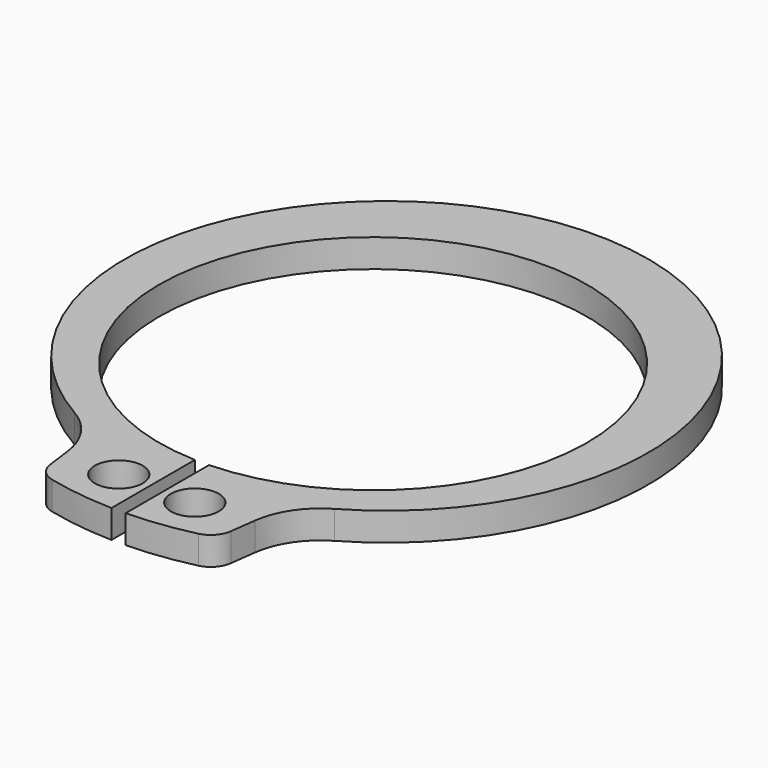
from build123d import *

# Parameters (mm, degrees)
F0_R     = 0.85
F1_DEPTH = 1


with BuildPart() as f1:
    # F0 (on Top) → F1 (new body)
    with BuildSketch(Plane.XY):
        with BuildLine():
            ThreePointArc((-0.25, -7.595887), (0, 7.6), (0.25, -7.595887))
            Line((0.25, -7.595887), (0.25, -11.297234))
            ThreePointArc((0.25, -11.297234), (1.431103, -11.209012), (2.596485, -10.997648))
            ThreePointArc((2.596485, -10.997648), (3.006169, -10.755478), (3.205819, -10.323475))
            Line((3.205819, -10.323475), (3.328522, -9.391454))
            ThreePointArc((3.328522, -9.391454), (3.747523, -8.281762), (4.615831, -7.473667))
            ThreePointArc((4.615831, -7.473667), (0, 9.9), (-4.615831, -7.473667))
            ThreePointArc((-4.615831, -7.473667), (-3.747523, -8.281762), (-3.328522, -9.391454))
            Line((-3.328522, -9.391454), (-3.205819, -10.323475))
            ThreePointArc((-3.205819, -10.323475), (-3.006169, -10.755478), (-2.596485, -10.997648))
            ThreePointArc((-2.596485, -10.997648), (-1.431103, -11.209012), (-0.25, -11.297234))
            Line((-0.25, -11.297234), (-0.25, -7.595887))
        make_face()
        with Locations((-1.35, -9.6)):
            Circle(F0_R, mode=Mode.SUBTRACT)
        with Locations((1.35, -9.6)):
            Circle(F0_R, mode=Mode.SUBTRACT)
    extrude(amount=F1_DEPTH)


solid = f1.part
